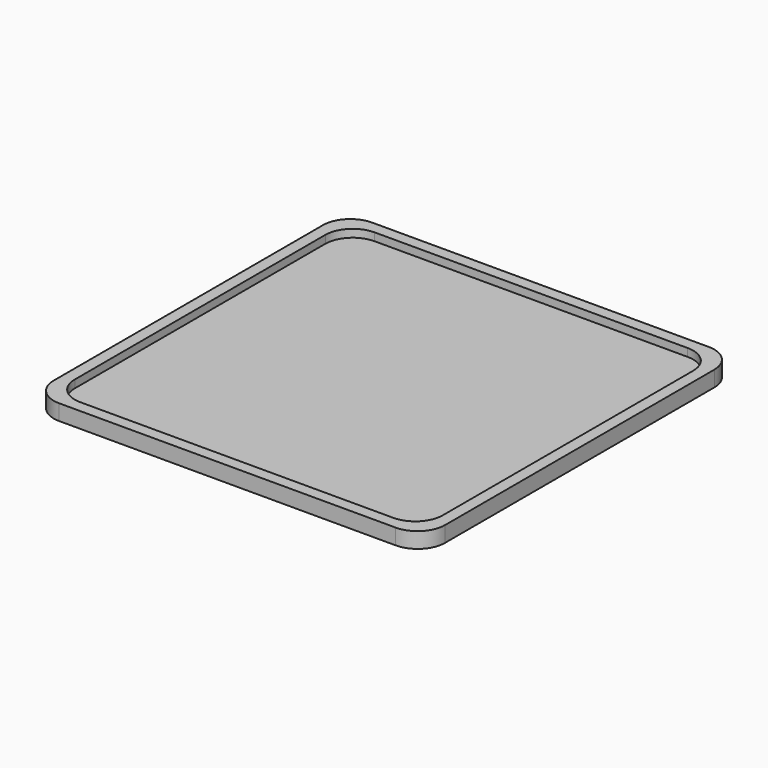
from build123d import *

# Parameters (mm, degrees)
BOX012_W     = 94
BOX012_H     = 94
BOX012_DEPTH = 2
FILLET013_R  = 7
BOX011_W     = 100
BOX011_H     = 100
BOX011_DEPTH = 4
FILLET012_R  = 7


with BuildPart() as top_with_fillets005:
    # Box012 → Box012 (new body)
    with BuildSketch(Plane(origin=(3, 3, 2), x_dir=(1, 0, 0), z_dir=(0, 0, 1))):
        with Locations((47, 47)):
            Rectangle(BOX012_W, BOX012_H)
    extrude(amount=BOX012_DEPTH)

    # Fillet013
    fillet013_edges = [top_with_fillets005.edges().sort_by_distance(p)[0] for p in [
        (3, 3, 3),
        (3, 97, 3),
        (97, 3, 3),
        (97, 97, 3),
    ]]
    fillet(fillet013_edges, radius=FILLET013_R)


with BuildPart() as lid:
    # Box011 → Box011 (new body)
    with BuildSketch(Plane.XY):
        with Locations((50, 50)):
            Rectangle(BOX011_W, BOX011_H)
    extrude(amount=BOX011_DEPTH)

    # Fillet012
    fillet012_edges = [lid.edges().sort_by_distance(p)[0] for p in [
        (0, 0, 2),
        (0, 100, 2),
        (100, 0, 2),
        (100, 100, 2),
    ]]
    fillet(fillet012_edges, radius=FILLET012_R)

    # Cut004: cut Top with fillets005
    add(top_with_fillets005.part, mode=Mode.SUBTRACT)


with BuildPart() as lid_1:
    # Cut004 placement: moved
    add(lid.part.moved(Location((0, -110, 0))))


solid = lid_1.part
